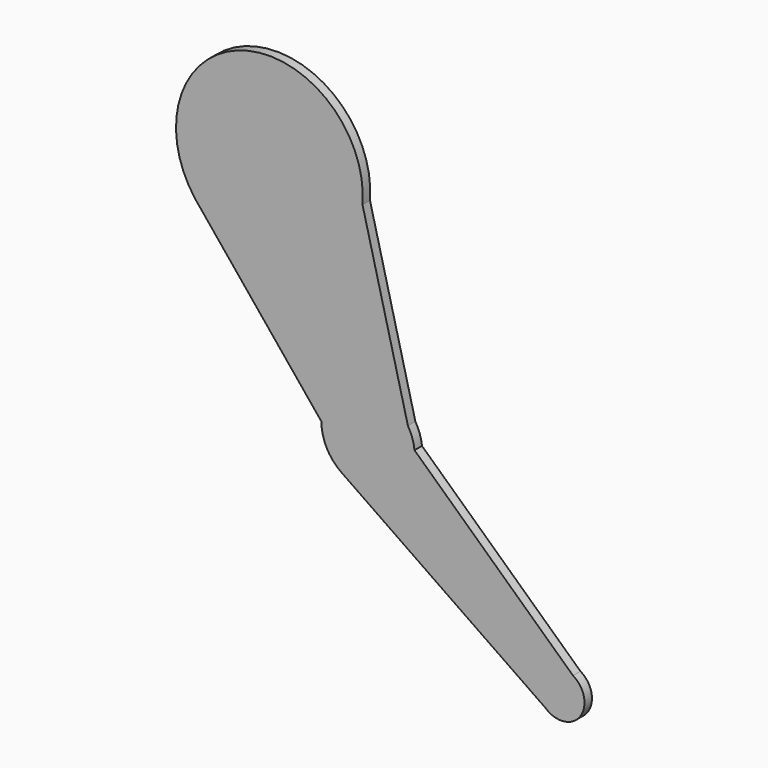
from build123d import *

# Parameters (mm, degrees)
F1_DEPTH = 10


with BuildPart() as f1:
    # F0 (on Front) → F1 (new body)
    with BuildSketch(Plane.XZ):
        with BuildLine():
            Line((148.27354, -200.430762), (99.685095, -7.929801))
            ThreePointArc((99.685095, -7.929801), (-28.245338, 95.928103), (-79.482166, -60.684308))
            Line((-79.482166, -60.684308), (-75.50395, -65.567931))
            Line((-75.50395, -65.567931), (55.654565, -226.576947))
            ThreePointArc((55.654565, -226.576947), (61.376545, -249.803158), (77.232841, -267.713373))
            Line((77.232841, -267.713373), (295.671613, -418.635733))
            ThreePointArc((295.671613, -418.635733), (332.558426, -414.834083), (325.084536, -378.51287))
            Line((325.084536, -378.51287), (155.36982, -221.248394))
            ThreePointArc((155.36982, -221.248394), (152.980519, -210.444555), (148.27354, -200.430762))
        make_face()
        with BuildLine():
            Line((-75.50395, -65.567931), (-79.482166, -60.684308))
            ThreePointArc((-79.482166, -60.684308), (-77.531519, -63.15745), (-75.50395, -65.567931))
        make_face()
    extrude(amount=F1_DEPTH)


solid = f1.part
